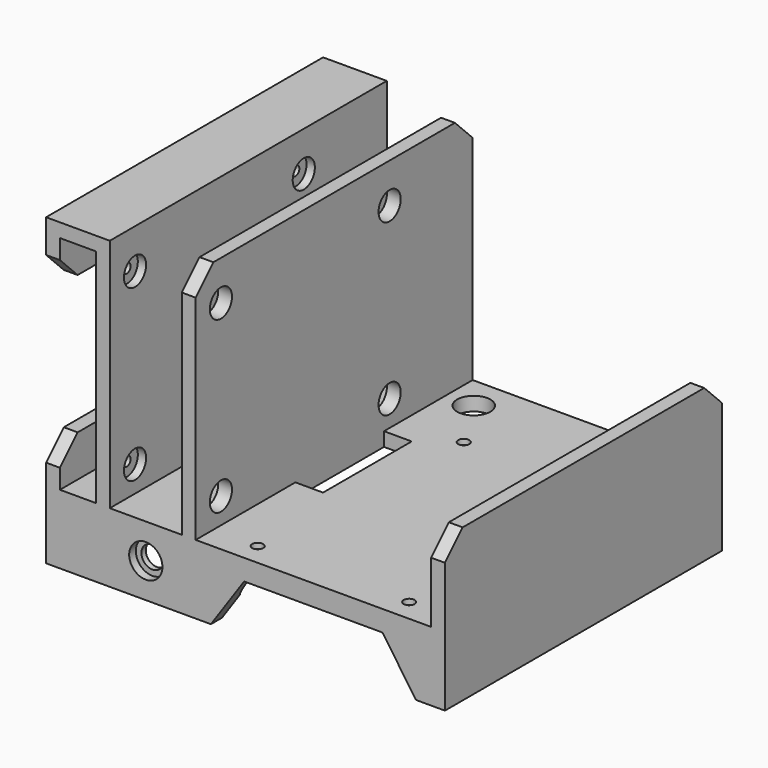
from build123d import *

# Parameters (mm, degrees)
SKETCH_R             = 4
PAD_DEPTH            = 125
SKETCH022_W          = 134
SKETCH022_H          = 125
POCKET_DEPTH         = 20
SKETCH023_R          = 6
POCKET006_DEPTH      = 3
SKETCH015_R          = 1.75
POCKET007_DEPTH      = 6
SKETCH036_R          = 5
POCKET008_DEPTH      = 3
POCKET008_DEPTH_BACK = 100
SKETCH018_R          = 2
POCKET009_DEPTH      = 25.001
SKETCH037_R          = 5
POCKET010_DEPTH      = 3
POCKET010_DEPTH_BACK = 100
SKETCH026_R          = 6
SKETCH026_W          = 10
SKETCH026_H          = 40
SKETCH026_W_2        = 13
SKETCH026_H_2        = 22.5
POCKET011_DEPTH      = 25.001
SKETCH035_W          = 80
SKETCH035_H          = 27.5
POCKET012_DEPTH      = 2
CHAMFER_SIZE         = 8


with BuildPart() as part:
    # Sketch → Pad (new body)
    with BuildSketch(Plane.XZ):
        Polygon((144, 0), (144, 55), (139, 55), (139, 25), (54, 25), (54, 110), (49, 110), (49, 25), (23, 25), (23, 110), (0, 110), (0, 90), (5, 90), (5, 105), (18, 105), (18, 25), (5, 25), (5, 40), (0, 40), (0, 0), (59.5, 0), (71.5, 17.5), (121.5, 17.5), (133.5, 0), align=None)
        with Locations((36, 12.5)):
            Circle(SKETCH_R, mode=Mode.SUBTRACT)
    extrude(amount=PAD_DEPTH)

    # Sketch022 (on Face20 of Pad) → Pocket (cut)
    with BuildSketch(Plane(origin=(0, 0, 0), x_dir=(1, 0, 0), z_dir=(0, 0, -1))):
        with Locations((72, 57.5)):
            Rectangle(SKETCH022_W, SKETCH022_H)
    extrude(amount=-POCKET_DEPTH, mode=Mode.SUBTRACT)

    # Sketch023 (on Face5 of Pocket) → Pocket006 (cut)
    with BuildSketch(Plane.XZ.offset(125)):
        with Locations((36, 12.5)):
            Circle(SKETCH023_R)
    extrude(amount=-POCKET006_DEPTH, mode=Mode.SUBTRACT)

    # Sketch015 (on Face17 of Pocket006) → Pocket007 (cut)
    with BuildSketch(Plane(origin=(18, 0, 0), x_dir=(0, 0, -1), z_dir=(-1, 0, 0))):
        with Locations((-95.675, 113.6)):
            Circle(SKETCH015_R)
        with Locations((-34.325, 113.6)):
            Circle(SKETCH015_R)
        with Locations((-34.325, 37.45)):
            Circle(SKETCH015_R)
        with Locations((-95.675, 37.45)):
            Circle(SKETCH015_R)
    extrude(amount=-POCKET007_DEPTH, mode=Mode.SUBTRACT)

    # Sketch036 (on Face23 of Pocket007) → Pocket008 (cut, two sides)
    with BuildSketch(Plane(origin=(23, 0, 0), x_dir=(0, 0, 1), z_dir=(1, 0, 0))) as pocket008_sk:
        with Locations((95.675, 113.6)):
            Circle(SKETCH036_R)
        with Locations((34.325, 113.6)):
            Circle(SKETCH036_R)
        with Locations((34.325, 37.45)):
            Circle(SKETCH036_R)
        with Locations((95.675, 37.45)):
            Circle(SKETCH036_R)
    extrude(amount=-POCKET008_DEPTH, mode=Mode.SUBTRACT)
    extrude(pocket008_sk.sketch, amount=POCKET008_DEPTH_BACK, mode=Mode.SUBTRACT)

    # Sketch018 (on Face28 of Pocket008) → Pocket009 (cut, through all)
    with BuildSketch(Plane(origin=(0, 0, 25), x_dir=(-1, 0, 0), z_dir=(0, 0, 1))):
        with Locations((-124.69, 117)):
            Circle(SKETCH018_R)
        with Locations((-70, 117)):
            Circle(SKETCH018_R)
        with Locations((-124.69, 31.14)):
            Circle(SKETCH018_R)
        with Locations((-75.71, 31.14)):
            Circle(SKETCH018_R)
    extrude(amount=-POCKET009_DEPTH, mode=Mode.SUBTRACT)

    # Sketch037 (on Face10 of Pocket009) → Pocket010 (cut, two sides)
    with BuildSketch(Plane(origin=(0, 0, 20), x_dir=(1, 0, 0), z_dir=(0, 0, -1))) as pocket010_sk:
        with Locations((70, 117)):
            Circle(SKETCH037_R)
        with Locations((124.69, 117)):
            Circle(SKETCH037_R)
        with Locations((75.71, 31.14)):
            Circle(SKETCH037_R)
        with Locations((124.69, 31.14)):
            Circle(SKETCH037_R)
    extrude(amount=-POCKET010_DEPTH, mode=Mode.SUBTRACT)
    extrude(pocket010_sk.sketch, amount=POCKET010_DEPTH_BACK, mode=Mode.SUBTRACT)

    # Sketch026 (on Face28 of Pocket010) → Pocket011 (cut, through all)
    with BuildSketch(Plane(origin=(0, 0, 25), x_dir=(-1, 0, 0), z_dir=(0, 0, 1))):
        with Locations((-36, 12)):
            Circle(SKETCH026_R)
        with Locations((-64, 12)):
            Circle(SKETCH026_R)
        with Locations((-59, 60)):
            Rectangle(SKETCH026_W, SKETCH026_H)
        with Locations((-11.5, 16.25)):
            Rectangle(SKETCH026_W_2, SKETCH026_H_2)
    extrude(amount=-POCKET011_DEPTH, mode=Mode.SUBTRACT)

    # Sketch035 (on Face17 of Pocket011) → Pocket012 (cut)
    with BuildSketch(Plane(origin=(18, 0, 0), x_dir=(0, 0, -1), z_dir=(-1, 0, 0))):
        with Locations((-65, 13.75)):
            Rectangle(SKETCH035_W, SKETCH035_H)
    extrude(amount=-POCKET012_DEPTH, mode=Mode.SUBTRACT)

    # Chamfer
    chamfer_edges = [part.edges().sort_by_distance(p)[0] for p in [
        (51.5, -125, 110),
        (2.5, -125, 90),
        (2.5, -125, 40),
        (141.5, -125, 55),
        (141.5, 0, 55),
        (2.5, 0, 40),
        (2.5, 0, 90),
        (51.5, 0, 110),
    ]]
    chamfer(chamfer_edges, length=CHAMFER_SIZE)


solid = part.part
